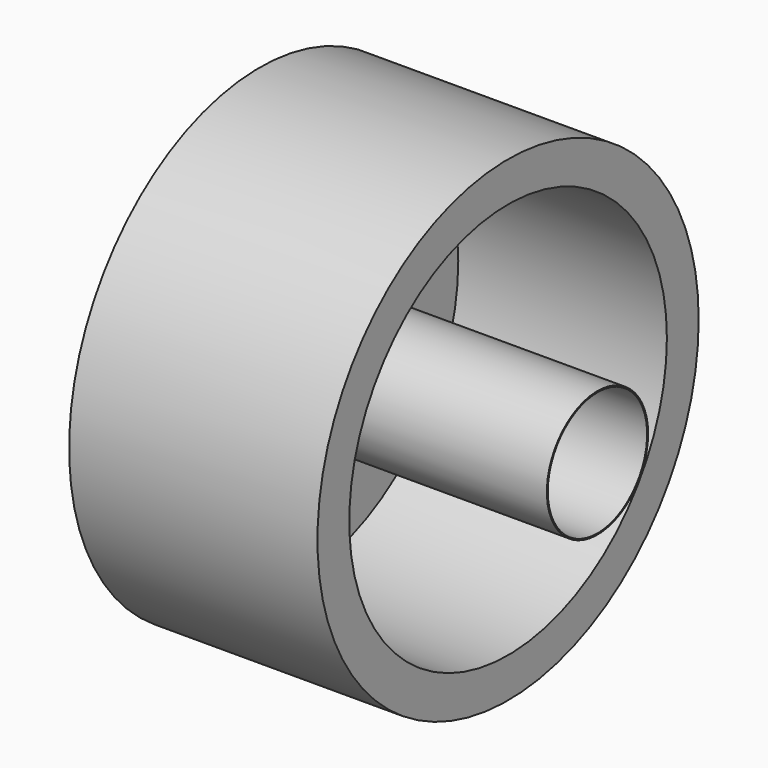
from build123d import *

# Parameters (mm, degrees)
F0_R     = 12.1837068699
F1_DEPTH = 12.7
F2_T     = -2.032
F3_R     = 3.2359024919
F4_DEPTH = 15.24
F6_D     = 6.35
F6_DEPTH = 14.732
F6_TIP   = 1.9077324654


with BuildPart() as f1:
    # F0 (on Right) → F1 (new body)
    with BuildSketch(Plane.YZ):
        Circle(F0_R)
    extrude(amount=F1_DEPTH)

    # F2
    f2_openings = [f1.faces().sort_by_distance(p)[0] for p in [
        (12.7, 0, 0),
    ]]
    offset(amount=F2_T, openings=f2_openings)

    # F3 (on face) → F4 (join)
    with BuildSketch(Plane.YZ.offset(2.032)):
        Circle(F3_R)
    extrude(amount=F4_DEPTH)

    # F6
    with Locations(Plane.YZ.offset(17.272)):
        with Locations((0, 0)):
            Hole(F6_D / 2, depth=F6_DEPTH)
            with Locations((0, 0, -(F6_DEPTH + F6_TIP / 2))):  # 118° drill point
                Cone(0, F6_D / 2, F6_TIP, mode=Mode.SUBTRACT)


solid = f1.part
